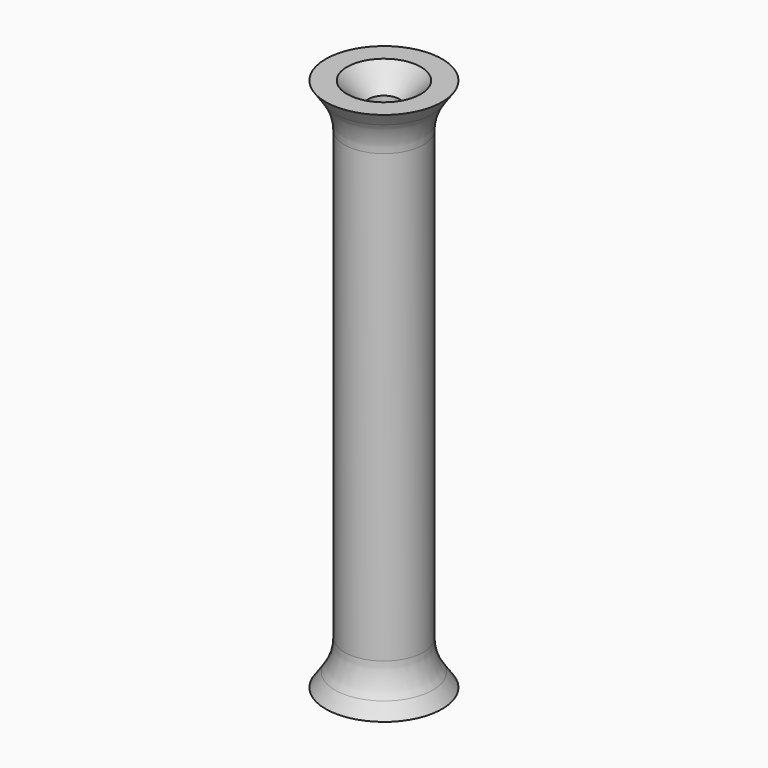
from build123d import *

# Parameters (mm, degrees)
F2_R     = 5
F3_SIZE2 = 2
F3_SIZE  = 2


with BuildPart() as f1:
    # F0 (on Front) → F1 (revolve)
    with BuildSketch(Plane.XZ):
        Polygon((-13.5647695723, 9.2907883497), (-17.5647695723, 9.2907883497), (-15.8147693879, 6.7407885124), (-15.8147693879, -15.7092116503), (-13.5647695723, -15.7092116503), align=None)
        Polygon((-13.5647695723, -40.7092116503), (-13.5647695723, -15.7092116503), (-15.8147693879, -15.7092116503), (-15.8147693879, -38.159211813), (-17.5647695723, -40.7092116503), align=None)
    revolve(axis=Axis((-12.1147695723, 0, -13.6592119893), (0, 0, -1)))

    # F2
    f2_edges = [f1.edges().sort_by_distance(p)[0] for p in [
        (-8.41477, 0, 6.740789),
        (-8.41477, 0, -38.159212),
    ]]
    fillet(f2_edges, radius=F2_R)

    # F3
    f3_edges = [f1.edges().sort_by_distance(p)[0] for p in [
        (-10.66477, 0, 9.290788),
        (-10.66477, 0, -40.709212),
    ]]
    chamfer(f3_edges, length=F3_SIZE, length2=F3_SIZE2)


solid = f1.part
